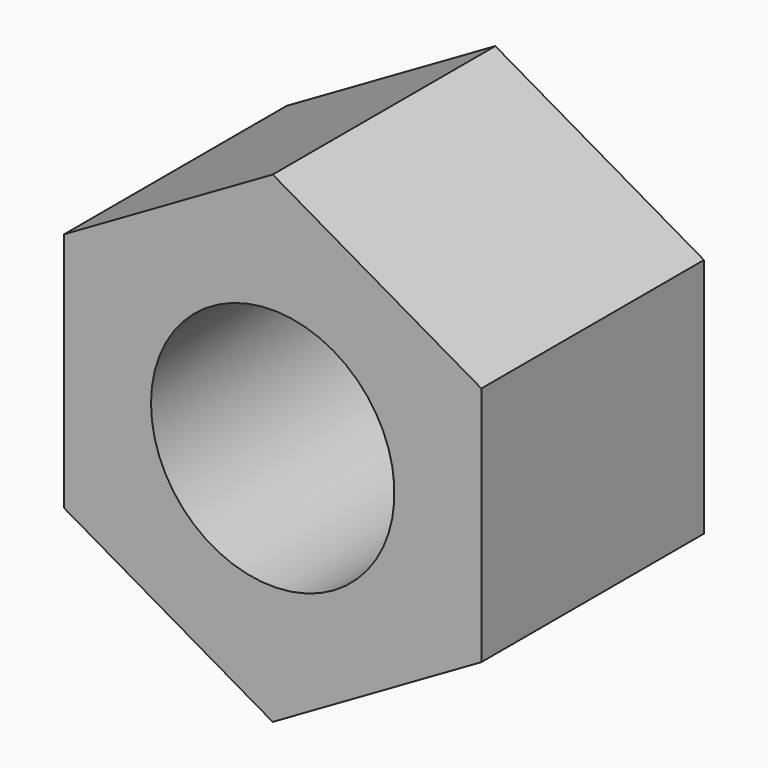
from build123d import *

# Parameters (mm, degrees)
F1_DEPTH = 8
F3_D     = 14


with BuildPart() as f1:
    # F0 (on Front) → F1 (new body, symmetric)
    with BuildSketch(Plane.XZ):
        Polygon((0, 13.8564064606), (-12, 6.9282032303), (-12, -6.9282032303), (0, -13.8564064606), (12, -6.9282032303), (12, 6.9282032303), align=None)
    extrude(amount=F1_DEPTH, both=True)

    # F3 (through all)
    with Locations(Plane.XZ.offset(8)):
        with Locations((0, 0)):
            Hole(F3_D / 2)


solid = f1.part
